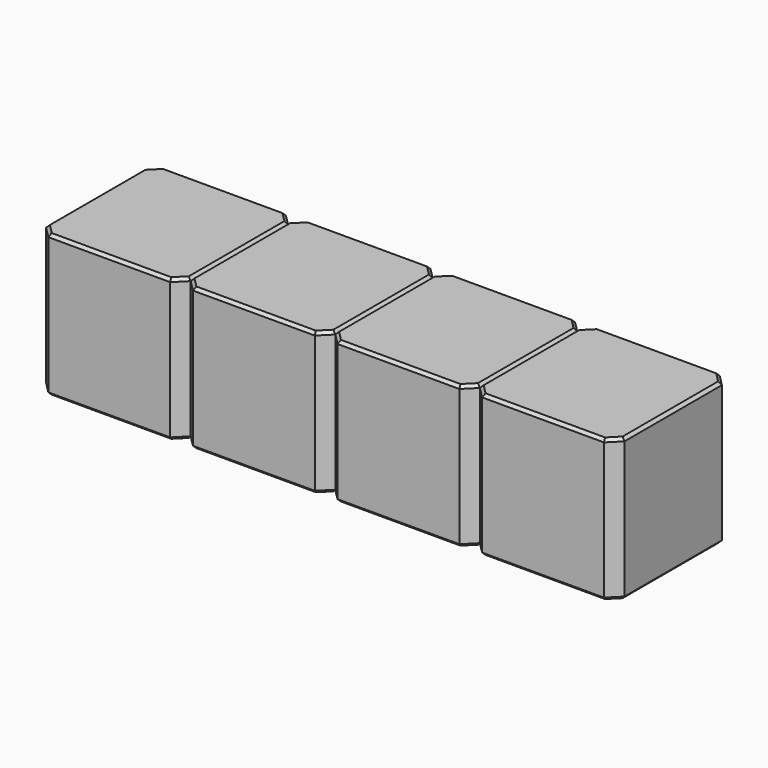
from build123d import *

# Parameters (mm, degrees)
SKETCH211_W      = 2.54
SKETCH211_H      = 2.54
PAD066_DEPTH     = 2.5
CHAMFER018_SIZE  = 0.2
CHAMFER019_SIZE  = 0.05
ARRAY003_X_COUNT = 4
ARRAY003_X_PITCH = 2.54


with BuildPart() as array003:
    # Sketch211 → Pad066 (new body)
    with BuildSketch(Plane.XY):
        Rectangle(SKETCH211_W, SKETCH211_H)
    extrude(amount=PAD066_DEPTH)

    # Chamfer018
    chamfer018_edges = [array003.edges().sort_by_distance(p)[0] for p in [
        (1.27, -1.27, 1.25),
        (-1.27, -1.27, 1.25),
        (1.27, 1.27, 1.25),
        (-1.27, 1.27, 1.25),
    ]]
    chamfer(chamfer018_edges, length=CHAMFER018_SIZE)

    # Chamfer019
    chamfer019_edges = [array003.edges().sort_by_distance(p)[0] for p in [
        (0, -1.27, 2.5),
        (-1.17, -1.17, 2.5),
        (1.17, -1.17, 2.5),
        (-1.27, 0, 2.5),
        (1.27, 0, 2.5),
        (-1.17, 1.17, 2.5),
        (1.17, 1.17, 2.5),
        (0, 1.27, 2.5),
        (0, -1.27, 0),
        (-1.17, -1.17, 0),
        (1.17, -1.17, 0),
        (-1.27, 0, 0),
        (1.27, 0, 0),
        (-1.17, 1.17, 0),
        (1.17, 1.17, 0),
        (0, 1.27, 0),
    ]]
    chamfer(chamfer019_edges, length=CHAMFER019_SIZE)


with BuildPart() as array003_copy1:
    # Array003 X: instance of Array003
    add(array003.part.moved(Location(Vector(1, 0, 0) * (1 * ARRAY003_X_PITCH))))


with BuildPart() as array003_copy2:
    # Array003 X: instance of Array003
    add(array003.part.moved(Location(Vector(1, 0, 0) * (2 * ARRAY003_X_PITCH))))


with BuildPart() as array003_copy3:
    # Array003 X: instance of Array003
    add(array003.part.moved(Location(Vector(1, 0, 0) * (3 * ARRAY003_X_PITCH))))


solid = Compound([array003.part, array003_copy1.part, array003_copy2.part, array003_copy3.part])
